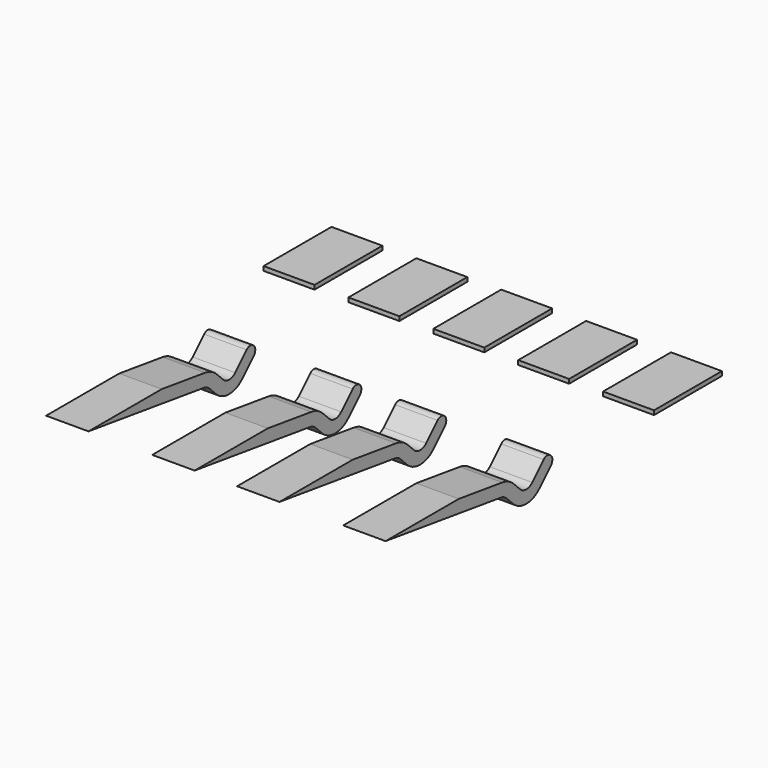
from build123d import *

# Parameters (mm, degrees)
EXTRUDE010_DEPTH = 1
BOX053_W         = 1.2
BOX053_H         = 2
BOX053_DEPTH     = 0.1
ARRAY015_X_COUNT = 5
ARRAY015_X_PITCH = 2


with BuildPart() as extrude015:
    # Sketch027 → Extrude010 (new body)
    with BuildSketch(Plane.YZ):
        with BuildLine():
            Line((1.279699, -0.17985), (0, 0))
            Line((0, 0), (-2.155589, 0))
            Line((-2.155589, 0), (1.237947, -0.47693))
            ThreePointArc((1.408328, -0.561879), (1.330055, -0.505531), (1.237947, -0.47693))
            Line((1.408328, -0.561879), (1.596448, -0.749999))
            ThreePointArc((1.596448, -0.749999), (1.985356, -0.91109), (2.374264, -0.75))
            Line((2.374264, -0.75), (2.712132, -0.412132))
            ThreePointArc((2.712132, -0.412132), (2.712132, -0.2), (2.5, -0.2))
            Line((2.162133, -0.537867), (2.5, -0.2))
            ThreePointArc((1.80858, -0.537867), (1.985356, -0.61109), (2.162133, -0.537867))
            Line((1.62046, -0.349747), (1.80858, -0.537867))
            ThreePointArc((1.62046, -0.349747), (1.463914, -0.23705), (1.279699, -0.17985))
        make_face()
    extrude(amount=EXTRUDE010_DEPTH)


with BuildPart() as extrude015_1:
    # Extrude010 placement: moved
    add(extrude015.part.moved(Location((-4, 0, 0))))


with BuildPart() as extrude010:
    # Clone021 base: copy of Extrude015
    add(extrude015_1.part)


with BuildPart() as extrude010_1:
    # Clone021 placement: moved
    add(extrude010.part.moved(Location((2.5, 0, 0))))


with BuildPart() as extrude011:
    # Clone022 base: copy of Extrude015
    add(extrude015_1.part)


with BuildPart() as extrude011_1:
    # Clone022 placement: moved
    add(extrude011.part.moved(Location((4.5, 0, 0))))


with BuildPart() as extrude012:
    # Clone023 base: copy of Extrude015
    add(extrude015_1.part)


with BuildPart() as extrude012_1:
    # Clone023 placement: moved
    add(extrude012.part.moved(Location((7, 0, 0))))


with BuildPart() as fusion040:
    # Fusion040 base: copy of Extrude015
    add(extrude015_1.part)

    # Fusion040: union Extrude010, Extrude011, Extrude012
    add(extrude010_1.part)
    add(extrude011_1.part)
    add(extrude012_1.part)


with BuildPart() as fusion040_1:
    # Fusion040 placement: moved
    add(fusion040.part.moved(Location((0, 10, 12.6))))


with BuildPart() as pins_lower_connector:
    # Box053 → Box053 (new body)
    with BuildSketch(Plane(origin=(-4.6, 15, 12.5), x_dir=(1, 0, 0), z_dir=(0, 0, 1))):
        with Locations((0.6, 1)):
            Rectangle(BOX053_W, BOX053_H)
    extrude(amount=BOX053_DEPTH)

    # Array015 X: Pins (Lower Connector) ×5


with BuildPart() as pins_lower_connector_1:
    add(pins_lower_connector.part)
    with Locations(*[(i * ARRAY015_X_PITCH, 0, 0) for i in range(1, ARRAY015_X_COUNT)]):
        add(pins_lower_connector.part)

    # Fusion041: union Fusion040
    add(fusion040_1.part)


with BuildPart() as pins_lower_connector_2:
    # Clone025 placement: moved
    add(pins_lower_connector_1.part.moved(Location((0, 0, -8.4))))


solid = pins_lower_connector_2.part
